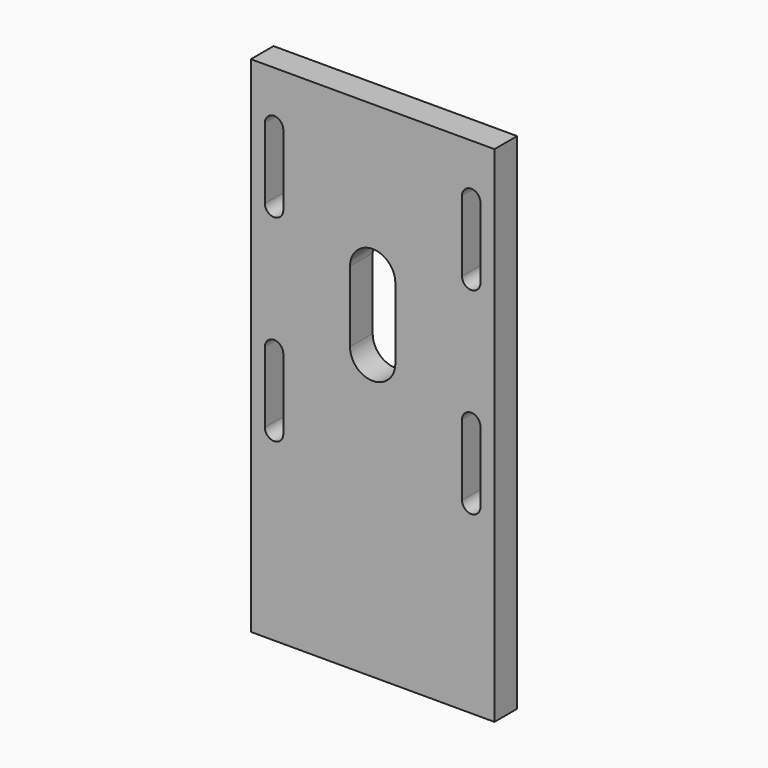
from build123d import *

# Parameters (mm, degrees)
F1_DEPTH = 10


with BuildPart() as f1:
    # F0 (on Front) → F1 (new body)
    with BuildSketch(Plane.XZ):
        Polygon((-43, 63), (-43, 0), (-43, -115), (43, -115), (43, 0), (43, 63), align=None)
        with BuildLine():
            Line((-38.05, -34.8), (-38.05, -24.8))
            ThreePointArc((-38.05, -24.8), (-34.8, -21.55), (-31.55, -24.8))
            Line((-31.55, -24.8), (-31.55, -34.8))
            Line((-31.55, -34.8), (-31.55, -49.8))
            ThreePointArc((-31.55, -49.8), (-34.8, -53.05), (-38.05, -49.8))
            Line((-38.05, -49.8), (-38.05, -34.8))
        make_face(mode=Mode.SUBTRACT)
        with BuildLine():
            Line((31.55, -34.8), (31.55, -24.8))
            ThreePointArc((31.55, -24.8), (34.8, -21.55), (38.05, -24.8))
            Line((38.05, -24.8), (38.05, -34.8))
            Line((38.05, -34.8), (38.05, -49.8))
            ThreePointArc((38.05, -49.8), (34.8, -53.05), (31.55, -49.8))
            Line((31.55, -49.8), (31.55, -34.8))
        make_face(mode=Mode.SUBTRACT)
        with BuildLine():
            Line((-31.55, 44.8), (-31.55, 34.8))
            Line((-31.55, 34.8), (-31.55, 19.8))
            ThreePointArc((-31.55, 19.8), (-34.8, 16.55), (-38.05, 19.8))
            Line((-38.05, 19.8), (-38.05, 34.8))
            Line((-38.05, 34.8), (-38.05, 44.8))
            ThreePointArc((-38.05, 44.8), (-34.8, 48.05), (-31.55, 44.8))
        make_face(mode=Mode.SUBTRACT)
        with BuildLine():
            Line((8, 10), (8, 0))
            Line((8, 0), (8, -15))
            ThreePointArc((8, -15), (0, -23), (-8, -15))
            Line((-8, -15), (-8, 0))
            Line((-8, 0), (-8, 10))
            ThreePointArc((-8, 10), (0, 18), (8, 10))
        make_face(mode=Mode.SUBTRACT)
        with BuildLine():
            Line((31.55, 34.8), (31.55, 44.8))
            ThreePointArc((31.55, 44.8), (34.8, 48.05), (38.05, 44.8))
            Line((38.05, 44.8), (38.05, 34.8))
            Line((38.05, 34.8), (38.05, 19.8))
            ThreePointArc((38.05, 19.8), (34.8, 16.55), (31.55, 19.8))
            Line((31.55, 19.8), (31.55, 34.8))
        make_face(mode=Mode.SUBTRACT)
    extrude(amount=F1_DEPTH)


solid = f1.part
